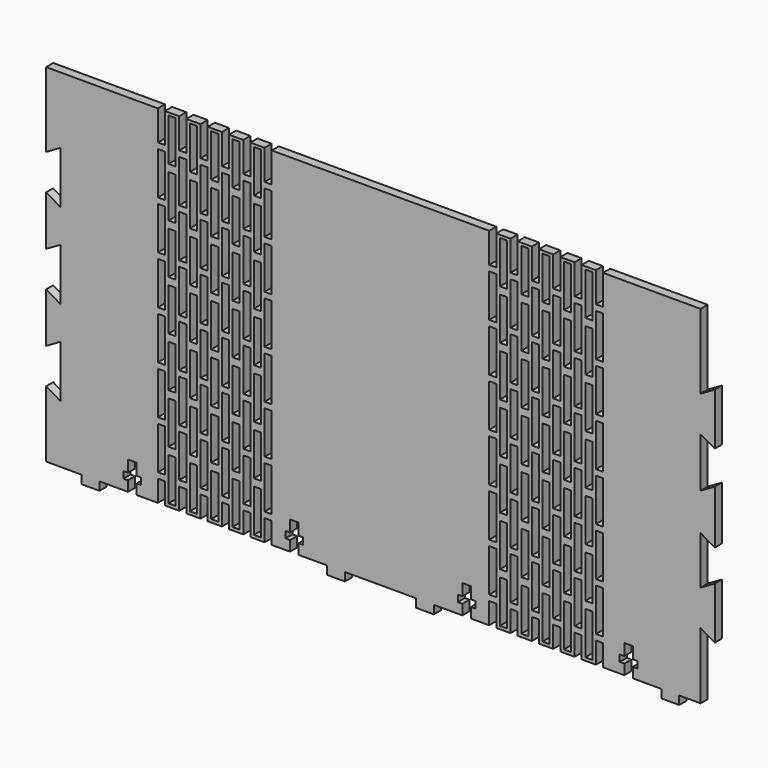
from build123d import *

# Parameters (mm, degrees)
F1_DEPTH = 3.175
F2_W     = 2.54
F2_H     = 7.62
F2_H_2   = 15.24
F2_H_3   = 10.7188
F3_DEPTH = 3.176


with BuildPart() as f1:
    # F0 (on Front) → F1 (new body)
    with BuildSketch(Plane.XZ):
        Polygon((12.7, -63.5), (19.05, -63.5), (19.05, -60.5028), (29.2608, -60.5028), (29.2608, -56.864892), (27.6098, -56.864892), (27.6098, -54.477292), (29.2608, -54.477292), (29.2608, -50.3428), (32.3088, -50.3428), (32.3088, -54.477292), (33.9598, -54.477292), (33.9598, -56.864892), (32.3088, -56.864892), (32.3088, -60.5028), (87.0712, -60.5028), (87.0712, -56.864892), (85.4202, -56.864892), (85.4202, -54.477292), (87.0712, -54.477292), (87.0712, -50.3428), (90.1192, -50.3428), (90.1192, -54.477292), (91.7702, -54.477292), (91.7702, -56.864892), (90.1192, -56.864892), (90.1192, -60.5028), (100.33, -60.5028), (100.33, -63.5), (106.68, -63.5), (106.68, -60.5028), (114.3, -60.5028), (114.3, -36.83), (119.38, -39.762939), (119.38, -21.197061), (114.3, -24.13), (114.3, -6.957299), (119.38, -9.890239), (119.38, -9.282939), (119.38, 9.282939), (114.3, 6.35), (114.3, 24.13), (119.38, 21.197061), (119.38, 39.762939), (114.3, 36.83), (114.3, 63.5), (-119.38, 63.5), (-119.38, 36.83), (-114.3, 39.762939), (-114.3, 21.197061), (-119.38, 24.13), (-119.38, 6.35), (-114.3, 9.282939), (-114.3, -9.282939), (-119.38, -6.35), (-119.38, -24.13), (-114.3, -21.197061), (-114.3, -39.762939), (-119.38, -36.83), (-119.38, -60.5028), (-106.68, -60.5028), (-106.68, -63.5), (-100.33, -63.5), (-100.33, -60.5028), (-90.1192, -60.5028), (-90.1192, -56.864892), (-91.7702, -56.864892), (-91.7702, -54.477292), (-90.1192, -54.477292), (-90.1192, -50.3428), (-87.0712, -50.3428), (-87.0712, -54.477292), (-85.4202, -54.477292), (-85.4202, -56.864892), (-87.0712, -56.864892), (-87.0712, -60.5028), (-32.3088, -60.5028), (-32.3088, -56.864892), (-33.9598, -56.864892), (-33.9598, -54.477292), (-32.3088, -54.477292), (-32.3088, -50.3428), (-29.2608, -50.3428), (-29.2608, -54.477292), (-27.6098, -54.477292), (-27.6098, -56.864892), (-29.2608, -56.864892), (-29.2608, -60.5028), (-19.05, -60.5028), (-19.05, -63.5), (-12.7, -63.5), (-12.7, -60.5028), (12.7, -60.5028), align=None)
    extrude(amount=F1_DEPTH)

    # F2 (on face) → F3 (cut, through all)
    with BuildSketch(Plane.XZ.offset(3.175)):
        with Locations((-40.091198, -56.6928)):
            Rectangle(F2_W, F2_H)
        with Locations((-40.091198, -43.2308)):
            Rectangle(F2_W, F2_H_2)
        with Locations((-40.091198, -25.9588)):
            Rectangle(F2_W, F2_H_2)
        with Locations((-40.091198, -8.6868)):
            Rectangle(F2_W, F2_H_2)
        with Locations((-40.091198, 8.5852)):
            Rectangle(F2_W, F2_H_2)
        with Locations((-40.091198, 25.8572)):
            Rectangle(F2_W, F2_H_2)
        with Locations((-40.091198, 43.1292)):
            Rectangle(F2_W, F2_H_2)
        with Locations((-40.091198, 58.1406)):
            Rectangle(F2_W, F2_H_3)
        with Locations((-47.711198, -56.6928)):
            Rectangle(F2_W, F2_H)
        with Locations((-47.711198, -43.2308)):
            Rectangle(F2_W, F2_H_2)
        with Locations((-47.711198, -25.9588)):
            Rectangle(F2_W, F2_H_2)
        with Locations((-47.711198, -8.6868)):
            Rectangle(F2_W, F2_H_2)
        with Locations((-47.711198, 8.5852)):
            Rectangle(F2_W, F2_H_2)
        with Locations((-47.711198, 25.8572)):
            Rectangle(F2_W, F2_H_2)
        with Locations((-47.711198, 43.1292)):
            Rectangle(F2_W, F2_H_2)
        with Locations((-47.711198, 58.1406)):
            Rectangle(F2_W, F2_H_3)
        with Locations((-55.331198, -56.6928)):
            Rectangle(F2_W, F2_H)
        with Locations((-55.331198, -43.2308)):
            Rectangle(F2_W, F2_H_2)
        with Locations((-55.331198, -25.9588)):
            Rectangle(F2_W, F2_H_2)
        with Locations((-55.331198, -8.6868)):
            Rectangle(F2_W, F2_H_2)
        with Locations((-55.331198, 8.5852)):
            Rectangle(F2_W, F2_H_2)
        with Locations((-55.331198, 25.8572)):
            Rectangle(F2_W, F2_H_2)
        with Locations((-55.331198, 43.1292)):
            Rectangle(F2_W, F2_H_2)
        with Locations((-55.331198, 58.1406)):
            Rectangle(F2_W, F2_H_3)
        with Locations((-62.951198, -56.6928)):
            Rectangle(F2_W, F2_H)
        with Locations((-62.951198, -43.2308)):
            Rectangle(F2_W, F2_H_2)
        with Locations((-62.951198, -25.9588)):
            Rectangle(F2_W, F2_H_2)
        with Locations((-62.951198, -8.6868)):
            Rectangle(F2_W, F2_H_2)
        with Locations((-62.951198, 8.5852)):
            Rectangle(F2_W, F2_H_2)
        with Locations((-62.951198, 25.8572)):
            Rectangle(F2_W, F2_H_2)
        with Locations((-62.951198, 43.1292)):
            Rectangle(F2_W, F2_H_2)
        with Locations((-62.951198, 58.1406)):
            Rectangle(F2_W, F2_H_3)
        with Locations((-70.571198, -56.6928)):
            Rectangle(F2_W, F2_H)
        with Locations((-70.571198, -43.2308)):
            Rectangle(F2_W, F2_H_2)
        with Locations((-70.571198, -25.9588)):
            Rectangle(F2_W, F2_H_2)
        with Locations((-70.571198, -8.6868)):
            Rectangle(F2_W, F2_H_2)
        with Locations((-70.571198, 8.5852)):
            Rectangle(F2_W, F2_H_2)
        with Locations((-70.571198, 25.8572)):
            Rectangle(F2_W, F2_H_2)
        with Locations((-70.571198, 43.1292)):
            Rectangle(F2_W, F2_H_2)
        with Locations((-70.571198, 58.1406)):
            Rectangle(F2_W, F2_H_3)
        with Locations((-78.191198, -56.6928)):
            Rectangle(F2_W, F2_H)
        with Locations((-78.191198, -43.2308)):
            Rectangle(F2_W, F2_H_2)
        with Locations((-78.191198, -25.9588)):
            Rectangle(F2_W, F2_H_2)
        with Locations((-78.191198, -8.6868)):
            Rectangle(F2_W, F2_H_2)
        with Locations((-78.191198, 8.5852)):
            Rectangle(F2_W, F2_H_2)
        with Locations((-78.191198, 25.8572)):
            Rectangle(F2_W, F2_H_2)
        with Locations((-78.191198, 43.1292)):
            Rectangle(F2_W, F2_H_2)
        with Locations((-78.191198, 58.1406)):
            Rectangle(F2_W, F2_H_3)
        with Locations((-43.931037, -51.790606)):
            Rectangle(F2_W, F2_H_2)
        with Locations((-43.931037, -34.010606)):
            Rectangle(F2_W, F2_H_2)
        with Locations((-43.931037, -16.230606)):
            Rectangle(F2_W, F2_H_2)
        with Locations((-43.931037, 1.549394)):
            Rectangle(F2_W, F2_H_2)
        with Locations((-43.931037, 19.329394)):
            Rectangle(F2_W, F2_H_2)
        with Locations((-43.931037, 37.109394)):
            Rectangle(F2_W, F2_H_2)
        with Locations((-43.931037, 54.889394)):
            Rectangle(F2_W, F2_H_2)
        with Locations((-51.551037, -51.790606)):
            Rectangle(F2_W, F2_H_2)
        with Locations((-51.551037, -34.010606)):
            Rectangle(F2_W, F2_H_2)
        with Locations((-51.551037, -16.230606)):
            Rectangle(F2_W, F2_H_2)
        with Locations((-51.551037, 1.549394)):
            Rectangle(F2_W, F2_H_2)
        with Locations((-51.551037, 19.329394)):
            Rectangle(F2_W, F2_H_2)
        with Locations((-51.551037, 37.109394)):
            Rectangle(F2_W, F2_H_2)
        with Locations((-51.551037, 54.889394)):
            Rectangle(F2_W, F2_H_2)
        with Locations((-59.171037, -51.790606)):
            Rectangle(F2_W, F2_H_2)
        with Locations((-59.171037, -34.010606)):
            Rectangle(F2_W, F2_H_2)
        with Locations((-59.171037, -16.230606)):
            Rectangle(F2_W, F2_H_2)
        with Locations((-59.171037, 1.549394)):
            Rectangle(F2_W, F2_H_2)
        with Locations((-59.171037, 19.329394)):
            Rectangle(F2_W, F2_H_2)
        with Locations((-59.171037, 37.109394)):
            Rectangle(F2_W, F2_H_2)
        with Locations((-59.171037, 54.889394)):
            Rectangle(F2_W, F2_H_2)
        with Locations((-66.791037, -51.790606)):
            Rectangle(F2_W, F2_H_2)
        with Locations((-66.791037, -34.010606)):
            Rectangle(F2_W, F2_H_2)
        with Locations((-66.791037, -16.230606)):
            Rectangle(F2_W, F2_H_2)
        with Locations((-66.791037, 1.549394)):
            Rectangle(F2_W, F2_H_2)
        with Locations((-66.791037, 19.329394)):
            Rectangle(F2_W, F2_H_2)
        with Locations((-66.791037, 37.109394)):
            Rectangle(F2_W, F2_H_2)
        with Locations((-66.791037, 54.889394)):
            Rectangle(F2_W, F2_H_2)
        with Locations((-74.411037, -51.790606)):
            Rectangle(F2_W, F2_H_2)
        with Locations((-74.411037, -34.010606)):
            Rectangle(F2_W, F2_H_2)
        with Locations((-74.411037, -16.230606)):
            Rectangle(F2_W, F2_H_2)
        with Locations((-74.411037, 1.549394)):
            Rectangle(F2_W, F2_H_2)
        with Locations((-74.411037, 19.329394)):
            Rectangle(F2_W, F2_H_2)
        with Locations((-74.411037, 37.109394)):
            Rectangle(F2_W, F2_H_2)
        with Locations((-74.411037, 54.889394)):
            Rectangle(F2_W, F2_H_2)
        with Locations((43.931037, -51.790606)):
            Rectangle(F2_W, F2_H_2)
        with Locations((66.791037, 54.889394)):
            Rectangle(F2_W, F2_H_2)
        with Locations((51.551037, -51.790606)):
            Rectangle(F2_W, F2_H_2)
        with Locations((55.331198, 58.1406)):
            Rectangle(F2_W, F2_H_3)
        with Locations((62.951198, -56.6928)):
            Rectangle(F2_W, F2_H)
        with Locations((40.091198, -43.2308)):
            Rectangle(F2_W, F2_H_2)
        with Locations((47.711198, 58.1406)):
            Rectangle(F2_W, F2_H_3)
        with Locations((43.931037, 54.889394)):
            Rectangle(F2_W, F2_H_2)
        with Locations((62.951198, 58.1406)):
            Rectangle(F2_W, F2_H_3)
        with Locations((47.711198, -56.6928)):
            Rectangle(F2_W, F2_H)
        with Locations((59.171037, 54.889394)):
            Rectangle(F2_W, F2_H_2)
        with Locations((40.091198, -56.6928)):
            Rectangle(F2_W, F2_H)
        with Locations((74.411037, 37.109394)):
            Rectangle(F2_W, F2_H_2)
        with Locations((66.791037, 19.329394)):
            Rectangle(F2_W, F2_H_2)
        with Locations((74.411037, -34.010606)):
            Rectangle(F2_W, F2_H_2)
        with Locations((43.931037, -34.010606)):
            Rectangle(F2_W, F2_H_2)
        with Locations((70.571198, -8.6868)):
            Rectangle(F2_W, F2_H_2)
        with Locations((47.711198, 8.5852)):
            Rectangle(F2_W, F2_H_2)
        with Locations((59.171037, -16.230606)):
            Rectangle(F2_W, F2_H_2)
        with Locations((66.791037, 1.549394)):
            Rectangle(F2_W, F2_H_2)
        with Locations((51.551037, -34.010606)):
            Rectangle(F2_W, F2_H_2)
        with Locations((40.091198, 8.5852)):
            Rectangle(F2_W, F2_H_2)
        with Locations((51.551037, -16.230606)):
            Rectangle(F2_W, F2_H_2)
        with Locations((47.711198, -43.2308)):
            Rectangle(F2_W, F2_H_2)
        with Locations((51.551037, 19.329394)):
            Rectangle(F2_W, F2_H_2)
        with Locations((78.191198, -43.2308)):
            Rectangle(F2_W, F2_H_2)
        with Locations((78.191198, 8.5852)):
            Rectangle(F2_W, F2_H_2)
        with Locations((78.191198, 25.8572)):
            Rectangle(F2_W, F2_H_2)
        with Locations((40.091198, -25.9588)):
            Rectangle(F2_W, F2_H_2)
        with Locations((40.091198, 25.8572)):
            Rectangle(F2_W, F2_H_2)
        with Locations((59.171037, -51.790606)):
            Rectangle(F2_W, F2_H_2)
        with Locations((43.931037, 1.549394)):
            Rectangle(F2_W, F2_H_2)
        with Locations((59.171037, 37.109394)):
            Rectangle(F2_W, F2_H_2)
        with Locations((55.331198, -43.2308)):
            Rectangle(F2_W, F2_H_2)
        with Locations((47.711198, -25.9588)):
            Rectangle(F2_W, F2_H_2)
        with Locations((70.571198, -43.2308)):
            Rectangle(F2_W, F2_H_2)
        with Locations((59.171037, -34.010606)):
            Rectangle(F2_W, F2_H_2)
        with Locations((74.411037, 1.549394)):
            Rectangle(F2_W, F2_H_2)
        with Locations((51.551037, 37.109394)):
            Rectangle(F2_W, F2_H_2)
        with Locations((43.931037, -16.230606)):
            Rectangle(F2_W, F2_H_2)
        with Locations((47.711198, 25.8572)):
            Rectangle(F2_W, F2_H_2)
        with Locations((70.571198, -25.9588)):
            Rectangle(F2_W, F2_H_2)
        with Locations((51.551037, 1.549394)):
            Rectangle(F2_W, F2_H_2)
        with Locations((47.711198, -8.6868)):
            Rectangle(F2_W, F2_H_2)
        with Locations((70.571198, 25.8572)):
            Rectangle(F2_W, F2_H_2)
        with Locations((78.191198, 43.1292)):
            Rectangle(F2_W, F2_H_2)
        with Locations((43.931037, 19.329394)):
            Rectangle(F2_W, F2_H_2)
        with Locations((78.191198, -56.6928)):
            Rectangle(F2_W, F2_H)
        with Locations((62.951198, 43.1292)):
            Rectangle(F2_W, F2_H_2)
        with Locations((47.711198, 43.1292)):
            Rectangle(F2_W, F2_H_2)
        with Locations((66.791037, -51.790606)):
            Rectangle(F2_W, F2_H_2)
        with Locations((70.571198, 43.1292)):
            Rectangle(F2_W, F2_H_2)
        with Locations((55.331198, 25.8572)):
            Rectangle(F2_W, F2_H_2)
        with Locations((74.411037, -51.790606)):
            Rectangle(F2_W, F2_H_2)
        with Locations((70.571198, 58.1406)):
            Rectangle(F2_W, F2_H_3)
        with Locations((40.091198, -8.6868)):
            Rectangle(F2_W, F2_H_2)
        with Locations((55.331198, -8.6868)):
            Rectangle(F2_W, F2_H_2)
        with Locations((40.091198, 58.1406)):
            Rectangle(F2_W, F2_H_3)
        with Locations((78.191198, 58.1406)):
            Rectangle(F2_W, F2_H_3)
        with Locations((62.951198, 8.5852)):
            Rectangle(F2_W, F2_H_2)
        with Locations((70.571198, -56.6928)):
            Rectangle(F2_W, F2_H)
        with Locations((78.191198, -8.6868)):
            Rectangle(F2_W, F2_H_2)
        with Locations((62.951198, -8.6868)):
            Rectangle(F2_W, F2_H_2)
        with Locations((59.171037, 19.329394)):
            Rectangle(F2_W, F2_H_2)
        with Locations((62.951198, -25.9588)):
            Rectangle(F2_W, F2_H_2)
        with Locations((74.411037, -16.230606)):
            Rectangle(F2_W, F2_H_2)
        with Locations((51.551037, 54.889394)):
            Rectangle(F2_W, F2_H_2)
        with Locations((66.791037, -16.230606)):
            Rectangle(F2_W, F2_H_2)
        with Locations((40.091198, 43.1292)):
            Rectangle(F2_W, F2_H_2)
        with Locations((55.331198, -25.9588)):
            Rectangle(F2_W, F2_H_2)
        with Locations((55.331198, -56.6928)):
            Rectangle(F2_W, F2_H)
        with Locations((78.191198, -25.9588)):
            Rectangle(F2_W, F2_H_2)
        with Locations((70.571198, 8.5852)):
            Rectangle(F2_W, F2_H_2)
        with Locations((66.791037, -34.010606)):
            Rectangle(F2_W, F2_H_2)
        with Locations((74.411037, 19.329394)):
            Rectangle(F2_W, F2_H_2)
        with Locations((62.951198, -43.2308)):
            Rectangle(F2_W, F2_H_2)
        with Locations((66.791037, 37.109394)):
            Rectangle(F2_W, F2_H_2)
        with Locations((55.331198, 43.1292)):
            Rectangle(F2_W, F2_H_2)
        with Locations((43.931037, 37.109394)):
            Rectangle(F2_W, F2_H_2)
        with Locations((62.951198, 25.8572)):
            Rectangle(F2_W, F2_H_2)
        with Locations((59.171037, 1.549394)):
            Rectangle(F2_W, F2_H_2)
        with Locations((55.331198, 8.5852)):
            Rectangle(F2_W, F2_H_2)
        with Locations((74.411037, 54.889394)):
            Rectangle(F2_W, F2_H_2)
    extrude(amount=-F3_DEPTH, mode=Mode.SUBTRACT)


solid = f1.part
